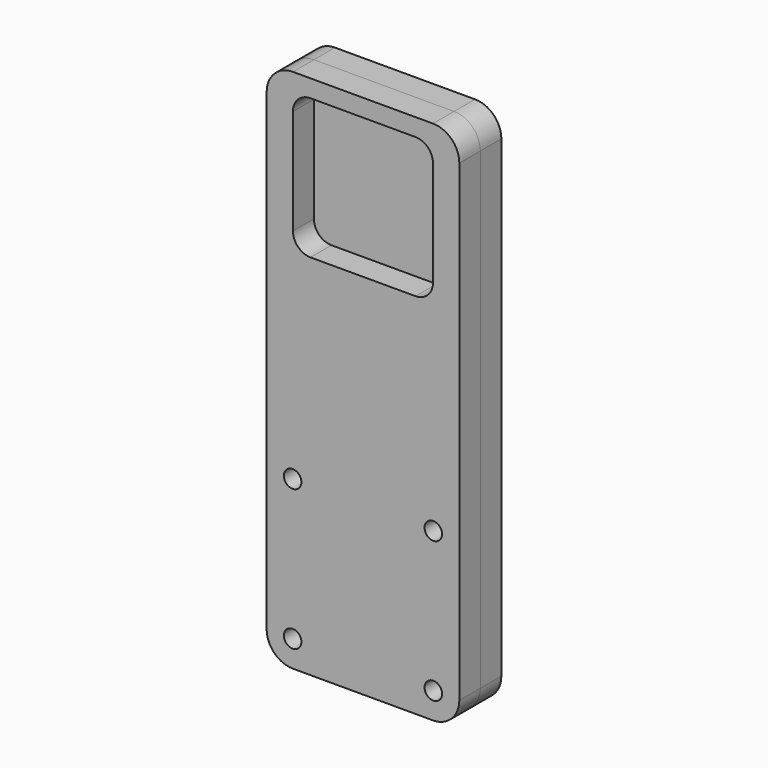
from build123d import *

# Parameters (mm, degrees)
F0_R     = 6.35
F1_DEPTH = 19.05
F2_DEPTH = 19.05


with BuildPart() as f1:
    # F0 (on Front) → F1 (new body)
    with BuildSketch(Plane.XZ):
        with BuildLine():
            Line((120.65, 0), (19.05, 0))
            ThreePointArc((19.05, 0), (5.5796158184, -5.5796158184), (0, -19.05))
            Line((0, -19.05), (0, -361.95))
            ThreePointArc((0, -361.95), (5.5796158184, -375.4203841816), (19.05, -381))
            Line((19.05, -381), (120.65, -381))
            ThreePointArc((120.65, -381), (134.1203841816, -375.4203841816), (139.7, -361.95))
            Line((139.7, -361.95), (139.7, -19.05))
            ThreePointArc((139.7, -19.05), (134.1203841816, -5.5796158184), (120.65, 0))
        make_face()
        with Locations((18.8468, -361.95)):
            Circle(F0_R, mode=Mode.SUBTRACT)
        with Locations((18.8468, -259.9436)):
            Circle(F0_R, mode=Mode.SUBTRACT)
        with Locations((120.8532, -361.95)):
            Circle(F0_R, mode=Mode.SUBTRACT)
        with Locations((120.8532, -259.9436)):
            Circle(F0_R, mode=Mode.SUBTRACT)
        with BuildLine():
            ThreePointArc((19.05, -25.4), (22.7697438789, -16.4197438789), (31.75, -12.7))
            Line((31.75, -12.7), (107.95, -12.7))
            ThreePointArc((107.95, -12.7), (116.9302561211, -16.4197438789), (120.65, -25.4))
            Line((120.65, -25.4), (120.65, -101.6))
            ThreePointArc((120.65, -101.6), (116.9302561211, -110.5802561211), (107.95, -114.3))
            Line((107.95, -114.3), (31.75, -114.3))
            ThreePointArc((31.75, -114.3), (22.7697438789, -110.5802561211), (19.05, -101.6))
            Line((19.05, -101.6), (19.05, -25.4))
        make_face(mode=Mode.SUBTRACT)
    extrude(amount=F1_DEPTH)


with BuildPart() as f2:
    # F0 (on Front) → F2 (new body)
    with BuildSketch(Plane.XZ):
        with BuildLine():
            Line((120.65, 0), (19.05, 0))
            ThreePointArc((19.05, 0), (5.5796158184, -5.5796158184), (0, -19.05))
            Line((0, -19.05), (0, -361.95))
            ThreePointArc((0, -361.95), (5.5796158184, -375.4203841816), (19.05, -381))
            Line((19.05, -381), (120.65, -381))
            ThreePointArc((120.65, -381), (134.1203841816, -375.4203841816), (139.7, -361.95))
            Line((139.7, -361.95), (139.7, -19.05))
            ThreePointArc((139.7, -19.05), (134.1203841816, -5.5796158184), (120.65, 0))
        make_face()
        with Locations((18.8468, -361.95)):
            Circle(F0_R, mode=Mode.SUBTRACT)
        with Locations((18.8468, -259.9436)):
            Circle(F0_R, mode=Mode.SUBTRACT)
        with Locations((120.8532, -361.95)):
            Circle(F0_R, mode=Mode.SUBTRACT)
        with Locations((120.8532, -259.9436)):
            Circle(F0_R, mode=Mode.SUBTRACT)
        with BuildLine():
            ThreePointArc((19.05, -25.4), (22.7697438789, -16.4197438789), (31.75, -12.7))
            Line((31.75, -12.7), (107.95, -12.7))
            ThreePointArc((107.95, -12.7), (116.9302561211, -16.4197438789), (120.65, -25.4))
            Line((120.65, -25.4), (120.65, -101.6))
            ThreePointArc((120.65, -101.6), (116.9302561211, -110.5802561211), (107.95, -114.3))
            Line((107.95, -114.3), (31.75, -114.3))
            ThreePointArc((31.75, -114.3), (22.7697438789, -110.5802561211), (19.05, -101.6))
            Line((19.05, -101.6), (19.05, -25.4))
        make_face(mode=Mode.SUBTRACT)
        with BuildLine():
            Line((107.95, -12.7), (31.75, -12.7))
            ThreePointArc((31.75, -12.7), (22.7697438789, -16.4197438789), (19.05, -25.4))
            Line((19.05, -25.4), (19.05, -101.6))
            ThreePointArc((19.05, -101.6), (22.7697438789, -110.5802561211), (31.75, -114.3))
            Line((31.75, -114.3), (107.95, -114.3))
            ThreePointArc((107.95, -114.3), (116.9302561211, -110.5802561211), (120.65, -101.6))
            Line((120.65, -101.6), (120.65, -25.4))
            ThreePointArc((120.65, -25.4), (116.9302561211, -16.4197438789), (107.95, -12.7))
        make_face()
    extrude(amount=-F2_DEPTH)


solid = Compound([f1.part, f2.part])
